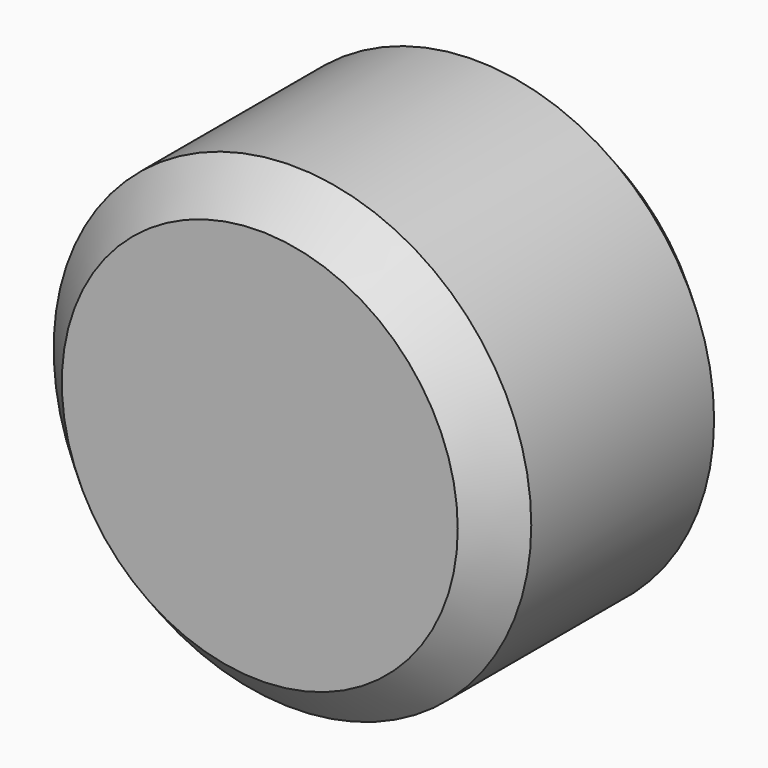
from build123d import *

# Parameters (mm, degrees)
F0_R     = 29.7013874084
F2_DEPTH = 38.5799203068
F1_SIZE  = 5.08
F3_R     = 20.8700317212
F3_R_2   = 17.605389727
F4_DEPTH = 28.3505246043
F6_DEPTH = 3.6485241726


with BuildPart() as f2:
    # F0 (on Front) → F2 (new body)
    with BuildSketch(Plane.XZ):
        Circle(F0_R)
    extrude(amount=F2_DEPTH)

    # F1
    f1_edges = [f2.edges().sort_by_distance(p)[0] for p in [
        (29.701387, -19.28996, 0),
        (-29.701387, 0, 0),
        (-29.701387, -38.57992, 0),
    ]]
    chamfer(f1_edges, length=F1_SIZE)

    # F3 (on face) → F4 (join)
    with BuildSketch(Plane.XZ.offset(38.5799203068)):
        Circle(F3_R)
        Circle(F3_R_2, mode=Mode.SUBTRACT)
    extrude(amount=-F4_DEPTH)

    # F5 (on face) → F6 (join)
    with BuildSketch(Plane(origin=(0, 0, 0), x_dir=(-1, 0, 0), z_dir=(0, 1, 0))):
        Polygon((-3.1568305567, 0), (-2.227387391, 0), (2.480414696, 0), (1.4310600236, 4.6359952539), (-1.5352480114, 4.6359952539), align=None)
        Polygon((2.480414696, 0), (-2.227387391, 0), (-3.1568305567, 0), (0, -3.7142876536), align=None)
        Polygon((4.7204634175, -2.7660680935), (2.480414696, 0), (0, -3.7142876536), (4.0771467611, -3.7142876536), align=None)
        Polygon((0, -3.7142876536), (-3.1568305567, 0), (-5.1875901408, -2.9743975028), (-3.672990948, -4.144215025), align=None)
    extrude(amount=F6_DEPTH)


solid = f2.part
